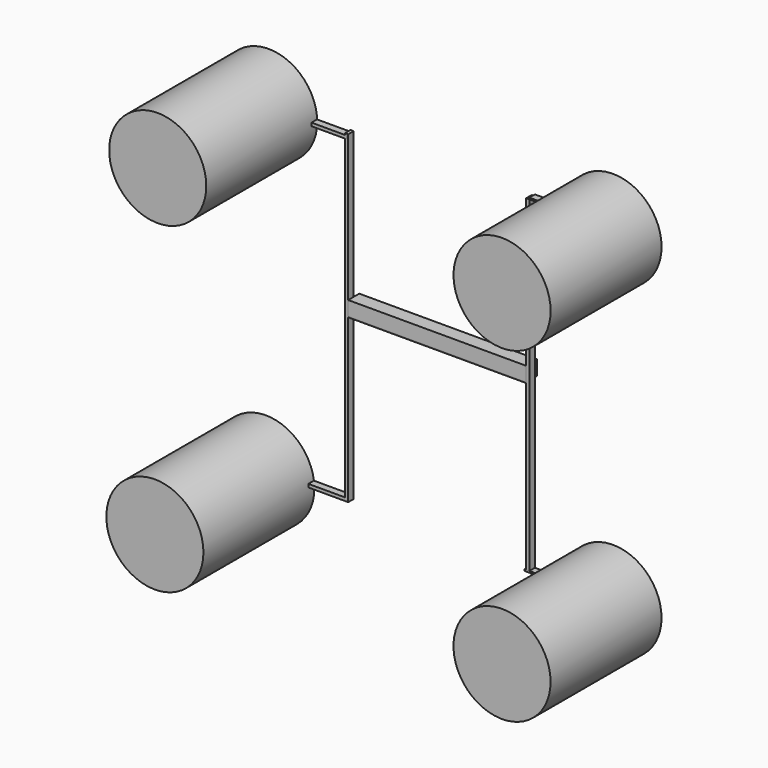
from build123d import *

# Parameters (mm, degrees)
F0_R          = 8.89
F1_DEPTH      = 25.4
F2_W          = 14.093503
F2_H          = 0.293616
F2_W_2        = 33.17846
F2_H_2        = 0.146806
F3_DEPTH      = 1.27
F4_W          = 15.855191
F4_H          = 0.587233
F4_W_2        = 0.587229
F4_H_2        = 59.897396
F5_DEPTH      = 1.27
F6_W          = 32.591231
F6_H          = 2.64253
F7_DEPTH      = 1.27
F7_DEPTH_BACK = 1.27


with BuildPart() as f1:
    # F0 (on Front) → F1 (new body)
    with BuildSketch(Plane.XZ):
        with Locations((-44.936354, 47.600865)):
            Circle(F0_R)
        with Locations((18.127472, 47.970025)):
            Circle(F0_R)
        with Locations((-45.454281, -11.635401)):
            Circle(F0_R)
        with Locations((18.120287, -11.839913)):
            Circle(F0_R)
    extrude(amount=F1_DEPTH)


with BuildPart() as f3:
    # F2 (on Front) → F3 (new body)
    with BuildSketch(Plane.XZ):
        Polygon((-45.80389, -10.423321), (-45.80389, -11.010551), (-29.361468, -11.010551), (-29.361468, -10.423321), (-29.948698, -10.423321), align=None)
        with Locations((10.863743, 48.740039)):
            Rectangle(F2_W, F2_H)
        Polygon((17.616881, -11.304165), (3.816992, -11.304165), (2.936148, -11.304165), (2.936148, -11.597781), (17.616881, -11.597781), align=None)
        Polygon((-29.948698, -10.423321), (-29.361468, -10.423321), (-29.361468, 18.791341), (-29.361468, 18.938147), (-29.361468, 48.299614), (-29.948698, 48.299614), align=None)
        with Locations((-12.772238, 18.864744)):
            Rectangle(F2_W_2, F2_H_2)
    extrude(amount=F3_DEPTH)


with BuildPart() as f5:
    # F4 (on Front) → F5 (new body)
    with BuildSketch(Plane.XZ):
        with Locations((-37.582678, 47.712385)):
            Rectangle(F4_W, F4_H)
        with Locations((3.523378, 18.644533)):
            Rectangle(F4_W_2, F4_H_2)
    extrude(amount=F5_DEPTH)


with BuildPart() as f7:
    # F6 (on Front) → F7 (new body, two sides)
    with BuildSketch(Plane.XZ) as f7_sk:
        with Locations((-13.065853, 20.259412)):
            Rectangle(F6_W, F6_H)
    extrude(amount=F7_DEPTH)
    extrude(f7_sk.sketch, amount=-F7_DEPTH_BACK)


solid = Compound([f1.part, f3.part, f5.part, f7.part])
